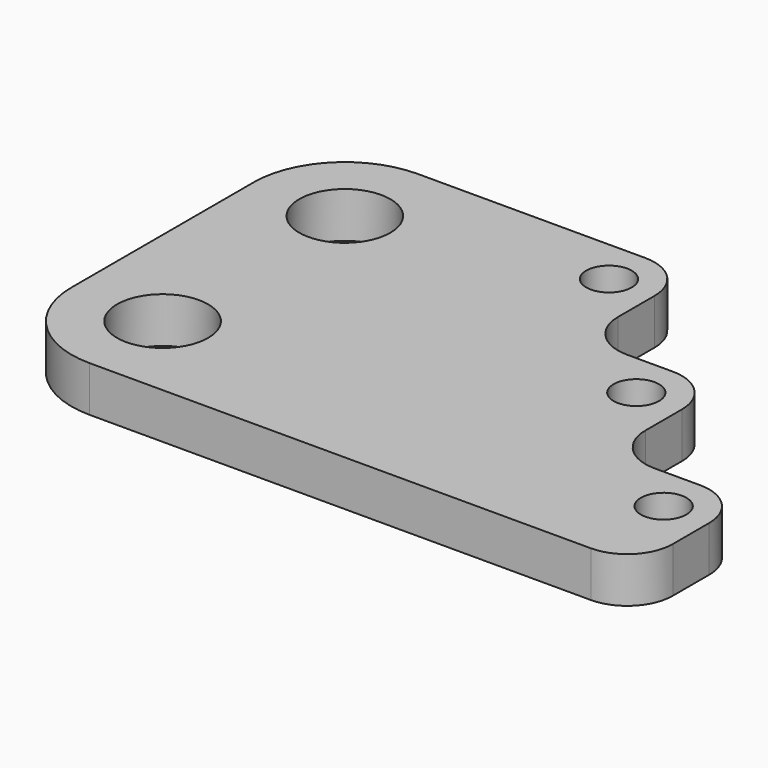
from build123d import *

# Parameters (mm, degrees)
F0_R     = 25.4
F0_R_2   = 12.7
F1_DEPTH = 25.4


with BuildPart() as f1:
    # F0 (on Top) → F1 (new body)
    with BuildSketch(Plane.XY):
        with BuildLine():
            Line((-117.218833, -55.96244), (162.181167, -55.96244))
            ThreePointArc((162.181167, -55.96244), (180.141679, -48.522952), (187.581167, -30.56244))
            Line((187.581167, -30.56244), (187.581167, -5.16244))
            ThreePointArc((187.581167, -5.16244), (180.141679, 12.798073), (162.181167, 20.23756))
            Line((162.181167, 20.23756), (136.781167, 20.23756))
            ThreePointArc((136.781167, 20.23756), (118.820655, 27.677048), (111.381167, 45.63756))
            Line((111.381167, 45.63756), (111.381167, 71.03756))
            ThreePointArc((111.381167, 71.03756), (103.941679, 88.998073), (85.981167, 96.43756))
            Line((85.981167, 96.43756), (60.581167, 96.43756))
            ThreePointArc((60.581167, 96.43756), (42.620655, 103.877048), (35.181167, 121.83756))
            Line((35.181167, 121.83756), (35.181167, 147.23756))
            ThreePointArc((35.181167, 147.23756), (27.741679, 165.198073), (9.781167, 172.63756))
            Line((9.781167, 172.63756), (-117.218833, 172.63756))
            ThreePointArc((-117.218833, 172.63756), (-153.139857, 157.758585), (-168.018833, 121.83756))
            Line((-168.018833, 121.83756), (-168.018833, -5.16244))
            ThreePointArc((-168.018833, -5.16244), (-153.139857, -41.083464), (-117.218833, -55.96244))
        make_face()
        with Locations((-117.218833, -5.16244)):
            Circle(F0_R, mode=Mode.SUBTRACT)
        with Locations((162.181167, -5.16244)):
            Circle(F0_R_2, mode=Mode.SUBTRACT)
        with Locations((-117.218833, 121.83756)):
            Circle(F0_R, mode=Mode.SUBTRACT)
        with Locations((9.781167, 147.23756)):
            Circle(F0_R_2, mode=Mode.SUBTRACT)
        with Locations((85.981167, 71.03756)):
            Circle(F0_R_2, mode=Mode.SUBTRACT)
    extrude(amount=F1_DEPTH)


solid = f1.part
